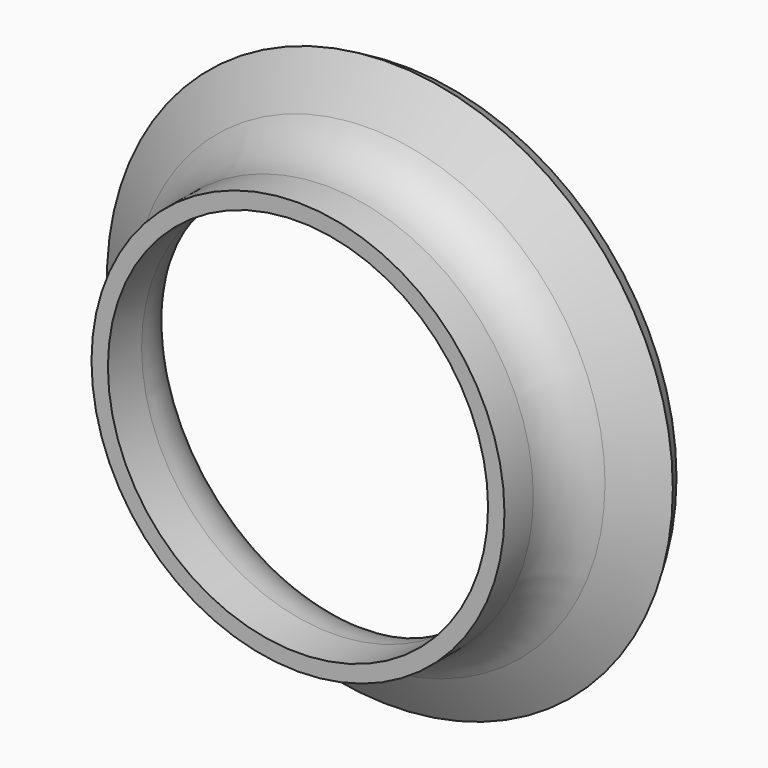
from build123d import *


with BuildPart() as part:
    # Sketch → Revolution (revolve)
    with BuildSketch(Plane.XY):
        with BuildLine():
            Line((43.25, 12.102886), (51.732051, 17))
            Line((51.732051, 17), (50, 20))
            Line((41.25, 14.948185), (50, 20))
            ThreePointArc((41.25, 14.948185), (36.49167, 10.189855), (34.75, 3.689855))
            Line((34.75, 3.689855), (34.75, -4))
            Line((34.75, -4), (37.75, -4))
            Line((37.75, 2.576606), (37.75, -4))
            ThreePointArc((43.25, 12.102886), (39.223721, 8.076606), (37.75, 2.576606))
        make_face()
    revolve(axis=Axis((0, 0, 0), (0, 1, 0)))


solid = part.part
